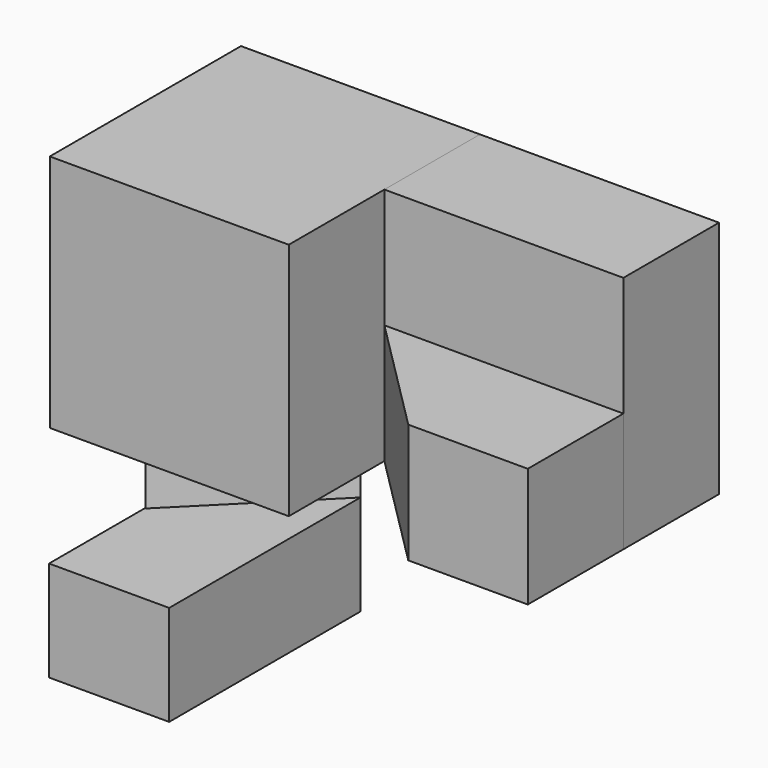
from build123d import *

# Parameters (mm, degrees)
F0_W      = 16
F0_H      = 16
F1_DEPTH  = 8
F2_DEPTH  = 16
F3_W      = 16
F3_H      = 8
F4_DEPTH  = 8
F6_DEPTH  = 8
F8_DEPTH  = 8
F9_W      = 8.043356
F9_H      = 6.719346
F10_DEPTH = 16


with BuildPart() as f1:
    # F0 (on Front) → F1 (new body)
    with BuildSketch(Plane.XZ):
        with Locations((-33.602594, 42.616238)):
            Rectangle(F0_W, F0_H)
    extrude(amount=F1_DEPTH)


with BuildPart() as f2:
    # F0 (on Front) → F2 (new body)
    with BuildSketch(Plane.XZ):
        with Locations((-49.602594, 42.616238)):
            Rectangle(F0_W, F0_H)
    extrude(amount=F2_DEPTH)

    # F7 (on face) → F8 (join)
    with BuildSketch(Plane(origin=(0, 0, 34.616238), x_dir=(1, 0, 0), z_dir=(0, 0, -1))):
        Polygon((-49.602594, 0), (-57.602594, 8), (-57.602594, 0), align=None)
    extrude(amount=F8_DEPTH)


with BuildPart() as f4:
    # F3 (on face) → F4 (new body)
    with BuildSketch(Plane.XZ.offset(8)):
        with Locations((-33.602594, 38.616238)):
            Rectangle(F3_W, F3_H)
    extrude(amount=F4_DEPTH)

    # F5 (on face) → F6 (cut)
    with BuildSketch(Plane(origin=(0, 0, 34.616238), x_dir=(1, 0, 0), z_dir=(0, 0, -1))):
        Polygon((-41.602594, 8), (-33.602594, 16), (-41.602594, 16), align=None)
    extrude(amount=-F6_DEPTH, mode=Mode.SUBTRACT)


with BuildPart() as f10:
    # F9 (on Front) → F10 (new body)
    with BuildSketch(Plane.XZ):
        with Locations((-53.631585, 23.250115)):
            Rectangle(F9_W, F9_H)
    extrude(amount=F10_DEPTH)


solid = Compound([f1.part, f2.part, f4.part, f10.part])
